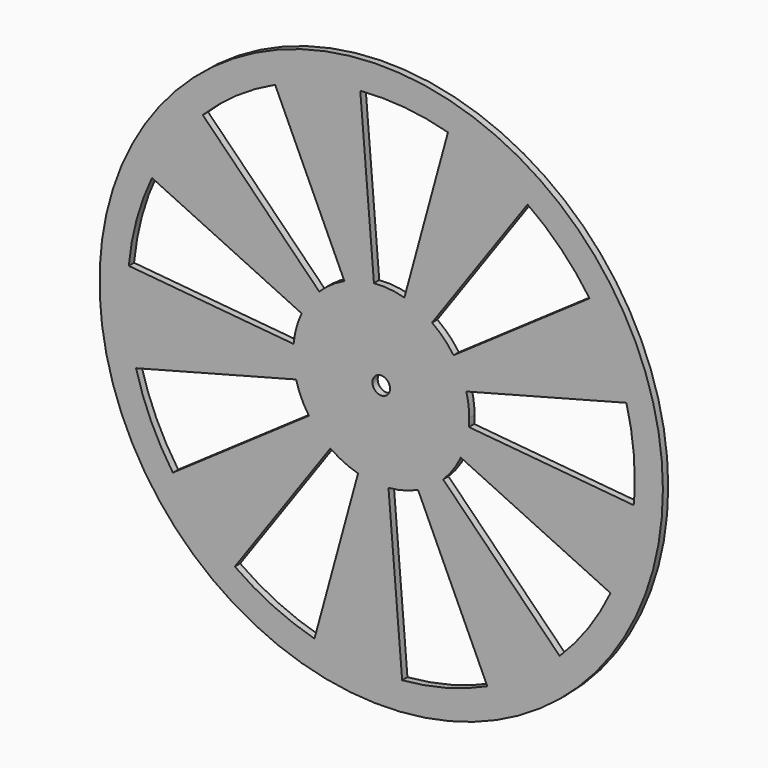
from build123d import *

# Parameters (mm, degrees)
F0_R     = 50.8
F0_R_2   = 1.5875
F1_DEPTH = 1.1938


with BuildPart() as f1:
    # F0 (on Front) → F1 (new body)
    with BuildSketch(Plane.XZ):
        Circle(F0_R)
        with BuildLine():
            ThreePointArc((44.21609, 11.629953), (45.342464, 5.863394), (45.72, 0))
            ThreePointArc((45.72, 0), (45.671777, -2.09932), (45.527211, -4.194212))
            ThreePointArc((45.527211, -4.194212), (44.107234, -12.03621), (41.34708, -19.512494))
            ThreePointArc((41.34708, -19.512494), (37.330616, -26.3959), (32.17988, -32.47728))
            ThreePointArc((32.17988, -32.47728), (26.051375, -37.571855), (19.131311, -41.524828))
            ThreePointArc((19.131311, -41.524828), (11.629953, -44.21609), (3.775225, -45.563868))
            ThreePointArc((3.775225, -45.563868), (-4.194212, -45.527211), (-12.03621, -44.107234))
            ThreePointArc((-12.03621, -44.107234), (-19.512494, -41.34708), (-26.3959, -37.330616))
            ThreePointArc((-26.3959, -37.330616), (-32.47728, -32.17988), (-37.571855, -26.051375))
            ThreePointArc((-37.571855, -26.051375), (-41.524828, -19.131311), (-44.21609, -11.629953))
            ThreePointArc((-44.21609, -11.629953), (-45.563868, -3.775225), (-45.527211, 4.194212))
            ThreePointArc((-45.527211, 4.194212), (-44.107234, 12.03621), (-41.34708, 19.512494))
            ThreePointArc((-41.34708, 19.512494), (-37.330616, 26.3959), (-32.17988, 32.47728))
            ThreePointArc((-32.17988, 32.47728), (-26.051375, 37.571855), (-19.131311, 41.524828))
            ThreePointArc((-19.131311, 41.524828), (-11.629953, 44.21609), (-3.775225, 45.563868))
            ThreePointArc((-3.775225, 45.563868), (4.194212, 45.527211), (12.03621, 44.107234))
            ThreePointArc((12.03621, 44.107234), (19.512494, 41.34708), (26.3959, 37.330616))
            ThreePointArc((26.3959, 37.330616), (32.47728, 32.17988), (37.571855, 26.051375))
            ThreePointArc((37.571855, 26.051375), (41.524828, 19.131311), (44.21609, 11.629953))
        make_face(mode=Mode.SUBTRACT)
        with BuildLine():
            Line((-15.80806, 1.456324), (-45.527211, 4.194212))
            ThreePointArc((-45.527211, 4.194212), (-45.563868, -3.775225), (-44.21609, -11.629953))
            Line((-44.21609, -11.629953), (-15.352809, -4.038178))
            ThreePointArc((-15.352809, -4.038178), (-15.820788, -1.310842), (-15.80806, 1.456324))
        make_face()
        with BuildLine():
            Line((-11.173569, 11.276833), (-32.17988, 32.47728))
            ThreePointArc((-32.17988, 32.47728), (-37.330616, 26.3959), (-41.34708, 19.512494))
            Line((-41.34708, 19.512494), (-14.356625, 6.775171))
            ThreePointArc((-14.356625, 6.775171), (-12.962019, 9.165243), (-11.173569, 11.276833))
        make_face()
        with BuildLine():
            Line((-1.310842, 15.820788), (-3.775225, 45.563868))
            ThreePointArc((-3.775225, 45.563868), (-11.629953, 44.21609), (-19.131311, 41.524828))
            Line((-19.131311, 41.524828), (-6.642816, 14.418343))
            ThreePointArc((-6.642816, 14.418343), (-4.038178, 15.352809), (-1.310842, 15.820788))
        make_face()
        with BuildLine():
            Line((9.165243, 12.962019), (26.3959, 37.330616))
            ThreePointArc((26.3959, 37.330616), (19.512494, 41.34708), (12.03621, 44.107234))
            Line((12.03621, 44.107234), (4.17924, 15.315012))
            ThreePointArc((4.17924, 15.315012), (6.775171, 14.356625), (9.165243, 12.962019))
        make_face()
        with BuildLine():
            Line((15.352809, 4.038178), (44.21609, 11.629953))
            ThreePointArc((44.21609, 11.629953), (41.524828, 19.131311), (37.571855, 26.051375))
            Line((37.571855, 26.051375), (13.045783, 9.045616))
            ThreePointArc((13.045783, 9.045616), (14.418343, 6.642816), (15.352809, 4.038178))
        make_face()
        with BuildLine():
            ThreePointArc((41.34708, -19.512494), (44.107234, -12.03621), (45.527211, -4.194212))
            Line((45.527211, -4.194212), (15.80806, -1.456324))
            ThreePointArc((15.80806, -1.456324), (15.315012, -4.17924), (14.356625, -6.775171))
            Line((14.356625, -6.775171), (41.34708, -19.512494))
        make_face()
        with BuildLine():
            ThreePointArc((19.131311, -41.524828), (26.051375, -37.571855), (32.17988, -32.47728))
            Line((32.17988, -32.47728), (11.173569, -11.276833))
            ThreePointArc((11.173569, -11.276833), (9.045616, -13.045783), (6.642816, -14.418343))
            Line((6.642816, -14.418343), (19.131311, -41.524828))
        make_face()
        with BuildLine():
            ThreePointArc((-12.03621, -44.107234), (-4.194212, -45.527211), (3.775225, -45.563868))
            Line((3.775225, -45.563868), (1.310842, -15.820788))
            ThreePointArc((1.310842, -15.820788), (-1.456324, -15.80806), (-4.17924, -15.315012))
            Line((-4.17924, -15.315012), (-12.03621, -44.107234))
        make_face()
        with BuildLine():
            ThreePointArc((-37.571855, -26.051375), (-32.47728, -32.17988), (-26.3959, -37.330616))
            Line((-26.3959, -37.330616), (-9.165243, -12.962019))
            ThreePointArc((-9.165243, -12.962019), (-11.276833, -11.173569), (-13.045783, -9.045616))
            Line((-13.045783, -9.045616), (-37.571855, -26.051375))
        make_face()
        with BuildLine():
            ThreePointArc((15.875, 0), (15.743911, 2.035901), (15.352809, 4.038178))
            ThreePointArc((15.352809, 4.038178), (14.418343, 6.642816), (13.045783, 9.045616))
            ThreePointArc((13.045783, 9.045616), (11.276833, 11.173569), (9.165243, 12.962019))
            ThreePointArc((9.165243, 12.962019), (6.775171, 14.356625), (4.17924, 15.315012))
            ThreePointArc((4.17924, 15.315012), (1.456324, 15.80806), (-1.310842, 15.820788))
            ThreePointArc((-1.310842, 15.820788), (-4.038178, 15.352809), (-6.642816, 14.418343))
            ThreePointArc((-6.642816, 14.418343), (-9.045616, 13.045783), (-11.173569, 11.276833))
            ThreePointArc((-11.173569, 11.276833), (-12.962019, 9.165243), (-14.356625, 6.775171))
            ThreePointArc((-14.356625, 6.775171), (-15.315012, 4.17924), (-15.80806, 1.456324))
            ThreePointArc((-15.80806, 1.456324), (-15.820788, -1.310842), (-15.352809, -4.038178))
            ThreePointArc((-15.352809, -4.038178), (-14.418343, -6.642816), (-13.045783, -9.045616))
            ThreePointArc((-13.045783, -9.045616), (-11.276833, -11.173569), (-9.165243, -12.962019))
            ThreePointArc((-9.165243, -12.962019), (-6.775171, -14.356625), (-4.17924, -15.315012))
            ThreePointArc((-4.17924, -15.315012), (-1.456324, -15.80806), (1.310842, -15.820788))
            ThreePointArc((1.310842, -15.820788), (4.038178, -15.352809), (6.642816, -14.418343))
            ThreePointArc((6.642816, -14.418343), (9.045616, -13.045783), (11.173569, -11.276833))
            ThreePointArc((11.173569, -11.276833), (12.962019, -9.165243), (14.356625, -6.775171))
            ThreePointArc((14.356625, -6.775171), (15.315012, -4.17924), (15.80806, -1.456324))
            ThreePointArc((15.80806, -1.456324), (15.858256, -0.728931), (15.875, 0))
        make_face()
        Circle(F0_R_2, mode=Mode.SUBTRACT)
    extrude(amount=F1_DEPTH)


solid = f1.part
